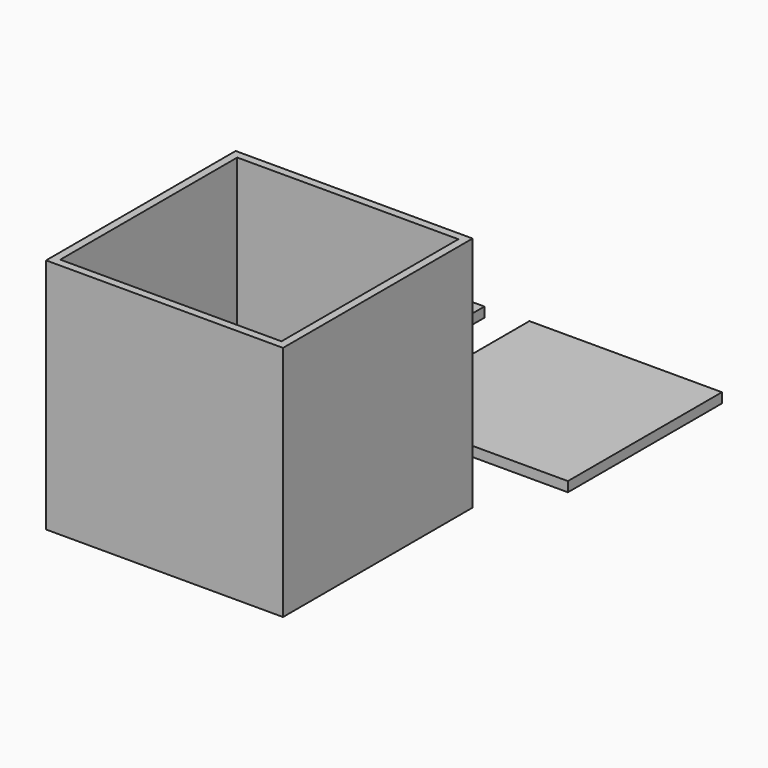
from build123d import *

# Parameters (mm, degrees)
F0_W      = 152.4
F0_H      = 152.4
F1_DEPTH  = 152.4
F2_T      = -5.08
F3_W      = 152.4
F3_H      = 152.4
F4_DEPTH  = 6.35
F5_W      = 139.7
F5_H      = 139.7
F6_DEPTH  = 6.35
F7_W      = 127
F7_H      = 127
F8_DEPTH  = 25.4
F9_W      = 12.7
F9_H      = 38.1
F10_DEPTH = 25.4
F11_R     = 3.175
F13_DEPTH = 6.35
F12_R     = 3.175
F14_DEPTH = 6.35
F15_W     = 123.825
F15_H     = 123.825
F16_DEPTH = 6.35


with BuildPart() as f1:
    # F0 (on Top) → F1 (new body)
    with BuildSketch(Plane.XY):
        with Locations((-16.12282, 7.924423)):
            Rectangle(F0_W, F0_H)
    extrude(amount=F1_DEPTH)

    # F2
    f2_openings = [f1.faces().sort_by_distance(p)[0] for p in [
        (-16.12282, 7.924423, 152.4),
    ]]
    offset(amount=F2_T, openings=f2_openings)


with BuildPart() as f4:
    # F3 (on Top) → F4 (new body)
    with BuildSketch(Plane.XY):
        with Locations((-140.50642, 172.924861)):
            Rectangle(F3_W, F3_H)
    extrude(amount=F4_DEPTH)

    # F5 (on face) → F6 (join)
    with BuildSketch(Plane.XY.offset(6.35)):
        with Locations((-140.50642, 172.924861)):
            Rectangle(F5_W, F5_H)
    extrude(amount=F6_DEPTH)

    # F7 (on face) → F8 (cut)
    with BuildSketch(Plane.XY.offset(12.7)):
        with Locations((-140.50642, 172.924861)):
            Rectangle(F7_W, F7_H)
    extrude(amount=-F8_DEPTH, mode=Mode.SUBTRACT)

    # F9 (on face) → F10 (join)
    with BuildSketch(Plane(origin=(0, 0, 0), x_dir=(1, 0, 0), z_dir=(0, 0, -1))):
        with Locations((-210.35642, -172.924861)):
            Rectangle(F9_W, F9_H)
        with Locations((-70.65642, -172.924861)):
            Rectangle(F9_W, F9_H)
    extrude(amount=F10_DEPTH)

    # F11 (on face) → F13 (join)
    with BuildSketch(Plane(origin=(-77.00642, 0, 0), x_dir=(0, -1, 0), z_dir=(-1, 0, 0))):
        with Locations((-172.924861, -13.335)):
            Circle(F11_R)
    extrude(amount=F13_DEPTH)

    # F12 (on face) → F14 (join)
    with BuildSketch(Plane.YZ.offset(-204.00642)):
        with Locations((172.924861, -13.335)):
            Circle(F12_R)
    extrude(amount=F14_DEPTH)


with BuildPart() as f16:
    # F15 (on Top) → F16 (new body)
    with BuildSketch(Plane.XY):
        with Locations((25.137921, 188.956312)):
            Rectangle(F15_W, F15_H)
    extrude(amount=F16_DEPTH)


solid = Compound([f1.part, f4.part, f16.part])
